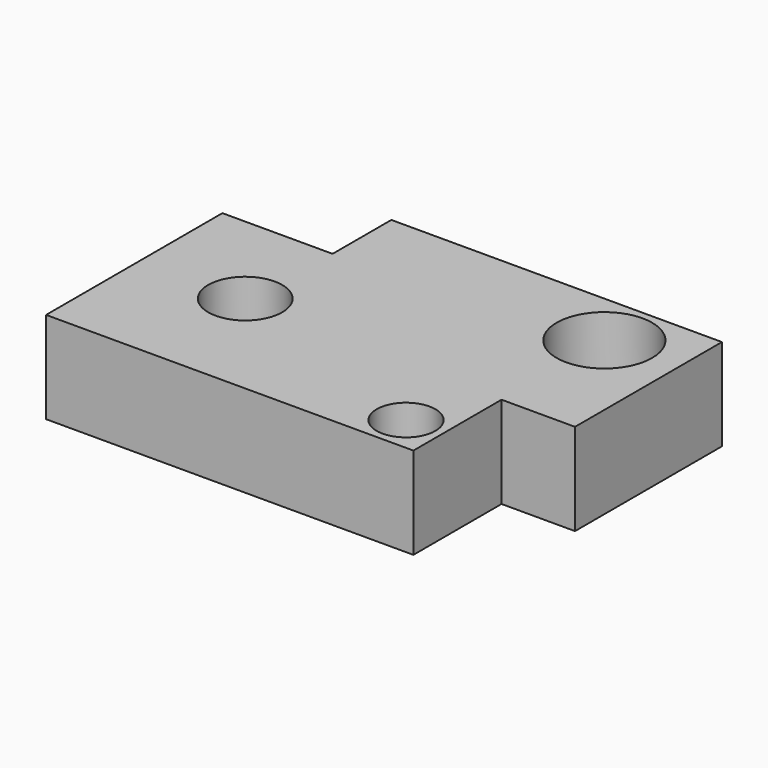
from build123d import *

# Parameters (mm, degrees)
F0_R     = 8
F1_DEPTH = 25


with BuildPart() as f1:
    # F0 (on Top) → F1 (new body)
    with BuildSketch(Plane.XY):
        with Locations((-67.326842, 10)):
            Circle(F0_R)
        with BuildLine():
            ThreePointArc((-44.326842, 65), (-66.51923, 74.192388), (-57.326842, 52))
            ThreePointArc((-57.326842, 52), (-48.134454, 55.807612), (-44.326842, 65))
        make_face()
        with BuildLine():
            ThreePointArc((-118.866613, 32.302745), (-128.949478, 42.38561), (-139.032343, 32.302745))
            ThreePointArc((-139.032343, 32.302745), (-128.949478, 22.21988), (-118.866613, 32.302745))
        make_face()
        Polygon((-157.326842, 32.302745), (-157.326842, 0), (-57.326842, 0), (-57.326842, 10), (-57.326842, 30), (-37.326842, 30), (-37.326842, 80), (-127.326842, 80), (-127.326842, 60), (-157.326842, 60), align=None)
        with BuildLine():
            ThreePointArc((-118.866613, 32.302745), (-128.949478, 22.21988), (-139.032343, 32.302745))
            ThreePointArc((-139.032343, 32.302745), (-128.949478, 42.38561), (-118.866613, 32.302745))
        make_face(mode=Mode.SUBTRACT)
        with Locations((-67.326842, 10)):
            Circle(F0_R, mode=Mode.SUBTRACT)
        with BuildLine():
            ThreePointArc((-44.326842, 65), (-48.134454, 55.807612), (-57.326842, 52))
            ThreePointArc((-57.326842, 52), (-66.51923, 74.192388), (-44.326842, 65))
        make_face(mode=Mode.SUBTRACT)
    extrude(amount=F1_DEPTH)


solid = f1.part
